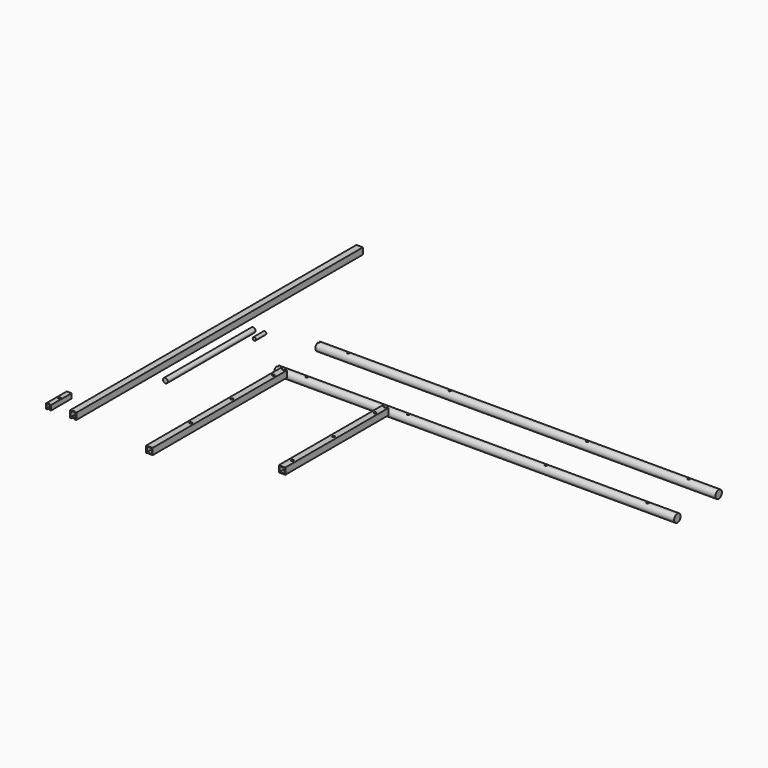
from build123d import *

# Parameters (mm, degrees)
F0_R      = 15.875
F1_DEPTH  = 1574.8
F3_D      = 9.525
F3_2_D    = 9.525
F4_W      = 25.4
F4_H      = 660.4
F5_DEPTH  = 25.4
F4_H_2    = 508
F6_DEPTH  = 25.4
F7_W      = 19.812
F7_H      = 19.812
F8_DEPTH  = 660.4
F9_DEPTH  = 660.4
F10_D     = 9.525
F11_D     = 9.525
F12_W     = 25.4
F12_H     = 1409.7
F13_DEPTH = 25.4
F12_W_2   = 19.05
F12_H_2   = 101.6
F14_DEPTH = 19.05
F15_W     = 19.812
F15_H     = 19.812
F16_DEPTH = 1409.7
F15_W_2   = 13.97
F15_H_2   = 13.97
F17_DEPTH = 101.6
F19_D     = 9.525
F21_D     = 9.525
F22_R     = 9.525
F23_DEPTH = 431.8
F24_R     = 6.35
F25_DEPTH = 50.8


with BuildPart() as f1:
    # F0 (on Right) → F1 (new body)
    with BuildSketch(Plane.YZ):
        with Locations((168.1257614167, -63.12350802)):
            Circle(F0_R)
    extrude(amount=F1_DEPTH)

    # F3 (through all)
    with Locations(Plane.XY):
        with Locations((116.68125, -35.0742385833), (1458.11875, -35.0742385833), (516.73125, -35.0742385833), (1058.06875, -35.0742385833), (116.68125, 168.1257614167), (516.73125, 168.1257614167), (1058.06875, 168.1257614167), (1458.11875, 168.1257614167), (0, 168.1257614167), (0, -35.0742385833)):
            Hole(F3_D / 2)


with BuildPart() as f1b:
    # F0 (on Right) → F1, piece 2 (new body)
    with BuildSketch(Plane.YZ):
        with Locations((-35.0742385833, -63.12350802)):
            Circle(F0_R)
    extrude(amount=F1_DEPTH)

    # F3#2 (through all)
    with Locations(Plane.XY):
        with Locations((116.68125, -35.0742385833), (1458.11875, -35.0742385833), (516.73125, -35.0742385833), (1058.06875, -35.0742385833), (116.68125, 168.1257614167), (516.73125, 168.1257614167), (1058.06875, 168.1257614167), (1458.11875, 168.1257614167), (0, 168.1257614167), (0, -35.0742385833)):
            Hole(F3_2_D / 2)


with BuildPart() as f5:
    # F4 (on Top) → F5 (new body)
    with BuildSketch(Plane.XY):
        with Locations((116.68125, -479.9567665067)):
            Rectangle(F4_W, F4_H)
    extrude(amount=F5_DEPTH)

    # F7 (on face) → F8 (cut)
    with BuildSketch(Plane.XZ.offset(810.1567665067)):
        with Locations((116.68125, 12.7)):
            Rectangle(F7_W, F7_H)
    extrude(amount=-F8_DEPTH, mode=Mode.SUBTRACT)

    # F10 (through all)
    with Locations(Plane(origin=(0, 0, 0), x_dir=(1, 0, 0), z_dir=(0, 0, -1))):
        with Locations((116.68125, 149.7567665067), (116.68125, 200.5567665067), (116.68125, 403.7567665067), (116.68125, 606.9567665067)):
            Hole(F10_D / 2)


with BuildPart() as f6:
    # F4 (on Top) → F6 (new body)
    with BuildSketch(Plane.XY):
        with Locations((516.73125, -403.7567665067)):
            Rectangle(F4_W, F4_H_2)
    extrude(amount=F6_DEPTH)

    # F7 (on face) → F9 (cut)
    with BuildSketch(Plane.XZ.offset(810.1567665067)):
        with Locations((516.73125, 12.7)):
            Rectangle(F7_W, F7_H)
    extrude(amount=-F9_DEPTH, mode=Mode.SUBTRACT)

    # F11 (through all)
    with Locations(Plane(origin=(0, 0, 0), x_dir=(1, 0, 0), z_dir=(0, 0, -1))):
        with Locations((516.73125, 149.7567665067), (516.73125, 200.5567665067), (516.73125, 403.7567665067), (516.73125, 606.9567665067)):
            Hole(F11_D / 2)


with BuildPart() as f13:
    # F12 (on Top) → F13 (new body)
    with BuildSketch(Plane.XY):
        with Locations((-212.7477916008, -69.0258325577)):
            Rectangle(F12_W, F12_H)
    extrude(amount=F13_DEPTH)

    # F15 (on face) → F16 (cut)
    with BuildSketch(Plane.XZ.offset(773.8758325577)):
        with Locations((-212.7477916008, 12.7)):
            Rectangle(F15_W, F15_H)
    extrude(amount=-F16_DEPTH, mode=Mode.SUBTRACT)

    # F21 (through all)
    with Locations(Plane.XY.offset(25.4)):
        with Locations((-212.7477916008, -773.8758325577)):
            Hole(F21_D / 2)


with BuildPart() as f14:
    # F12 (on Top) → F14 (new body)
    with BuildSketch(Plane.XY):
        with Locations((-309.7350905895, -723.0758325577)):
            Rectangle(F12_W_2, F12_H_2)
    extrude(amount=F14_DEPTH)

    # F15 (on face) → F17 (cut)
    with BuildSketch(Plane.XZ.offset(773.8758325577)):
        with Locations((-309.7350905895, 9.525)):
            Rectangle(F15_W_2, F15_H_2)
    extrude(amount=-F17_DEPTH, mode=Mode.SUBTRACT)

    # F19 (through all)
    with Locations(Plane.XY.offset(19.05)):
        with Locations((-309.7350905895, -719.9008325577), (-309.7350905895, -773.8758325577)):
            Hole(F19_D / 2)


with BuildPart() as f23:
    # F22 (on Front) → F23 (new body)
    with BuildSketch(Plane.XZ):
        with Locations((-123.2669055462, 22.466076538)):
            Circle(F22_R)
    extrude(amount=F23_DEPTH)


with BuildPart() as f25:
    # F24 (on Front) → F25 (new body)
    with BuildSketch(Plane.XZ):
        with Locations((-77.9177024961, 26.7712809145)):
            Circle(F24_R)
    extrude(amount=F25_DEPTH)


solid = Compound([f1.part, f1b.part, f5.part, f6.part, f13.part, f14.part, f23.part, f25.part])
